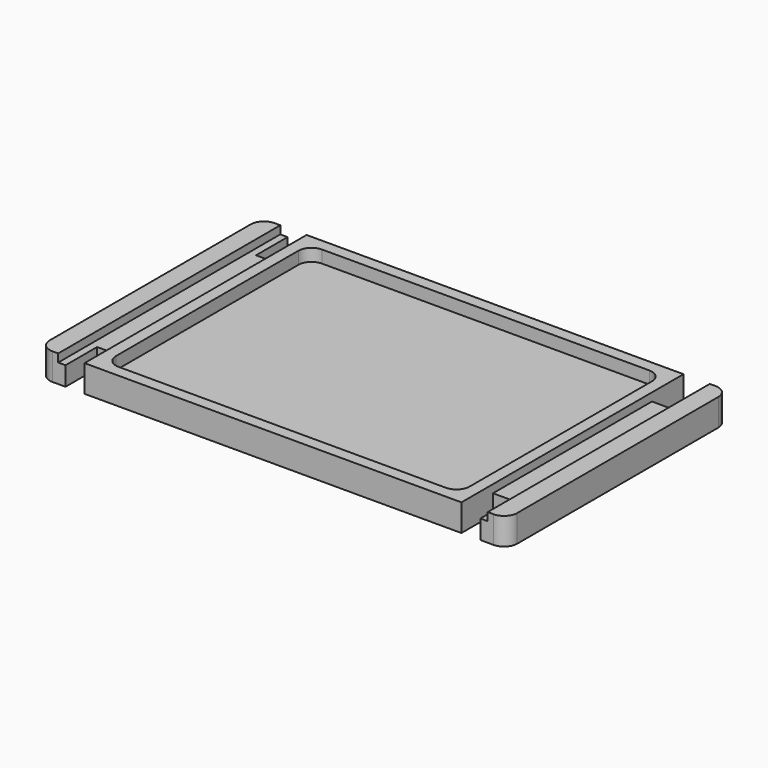
from build123d import *

# Parameters (mm, degrees)
PAD003_DEPTH    = 18.5
SKETCH005_W     = 18
SKETCH005_H     = 190
POCKET_DEPTH    = 5.5
POCKET001_DEPTH = 8.5


with BuildPart() as part:
    # Clone2D002 → Pad003 (new body)
    with BuildSketch(Plane.XY):
        with BuildLine():
            Line((-151, 95), (-142, 95))
            Line((-142, 95), (-142, 68))
            Line((-142, 68), (-129, 68))
            Line((-129, 68), (-129, 95))
            Line((-129, 95), (129, 95))
            Line((129, 95), (129, 68))
            Line((129, 68), (142, 68))
            Line((142, 68), (142, 95))
            Line((142, 95), (151, 95))
            ThreePointArc((151, 95), (157.363961, 92.363961), (160, 86))
            Line((160, 86), (160, -86))
            ThreePointArc((160, -86), (157.363961, -92.363961), (151, -95))
            Line((151, -95), (142, -95))
            Line((142, -95), (142, -68))
            Line((142, -68), (129, -68))
            Line((129, -68), (129, -95))
            Line((129, -95), (-129, -95))
            Line((-129, -95), (-129, -68))
            Line((-129, -68), (-142, -68))
            Line((-142, -68), (-142, -95))
            Line((-142, -95), (-151, -95))
            ThreePointArc((-151, -95), (-157.363961, -92.363961), (-160, -86))
            Line((-160, -86), (-160, 86))
            ThreePointArc((-160, 86), (-157.363961, 92.363961), (-151, 95))
        make_face()
    extrude(amount=PAD003_DEPTH)

    # Sketch005 (on Face26 of Pad003) → Pocket (cut)
    with BuildSketch(Plane.XY.offset(18.5)):
        with Locations((-138, 0)):
            Rectangle(SKETCH005_W, SKETCH005_H)
    pocket = extrude(amount=-POCKET_DEPTH, mode=Mode.SUBTRACT)

    # Mirrored: Pocket across Sketch005 V_Axis
    add(pocket.mirror(Plane(origin=(0, 0, 18.5), x_dir=(0, 0, 1), z_dir=(1, 0, 0))), mode=Mode.SUBTRACT)

    # Sketch006 (on Face31 of Pocket) → Pocket001 (cut)
    with BuildSketch(Plane.XY.offset(18.5)):
        with BuildLine():
            Line((-112, 87), (112, 87))
            ThreePointArc((121, 78), (118.363961, 84.363961), (112, 87))
            Line((121, 78), (121, -78))
            ThreePointArc((112, -87), (118.363961, -84.363961), (121, -78))
            Line((112, -87), (-112, -87))
            ThreePointArc((-121, -78), (-118.363961, -84.363961), (-112, -87))
            Line((-121, -78), (-121, 78))
            ThreePointArc((-112, 87), (-118.363961, 84.363961), (-121, 78))
        make_face()
    pocket001 = extrude(amount=-POCKET001_DEPTH, mode=Mode.SUBTRACT)

    # Mirrored001: Pocket001 across Sketch006 V_Axis
    add(pocket001.mirror(Plane(origin=(0, 0, 18.5), x_dir=(0, 0, 1), z_dir=(1, 0, 0))), mode=Mode.SUBTRACT)


with BuildPart() as part_1:
    # Clone006 placement: moved
    add(part.part.moved(Location((0, 95, 0))))


solid = part_1.part
